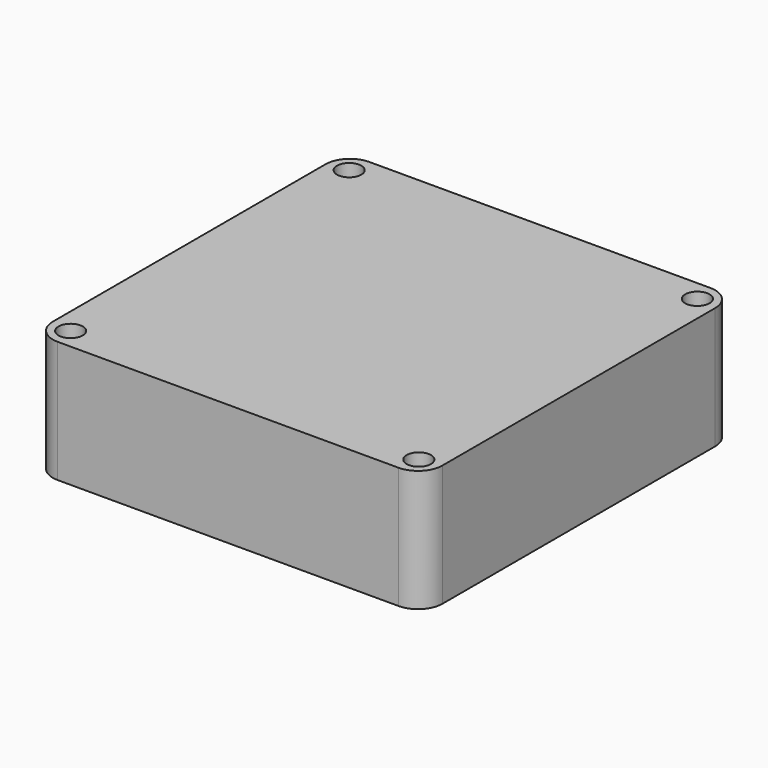
from build123d import *

# Parameters (mm, degrees)
SKETCH_W  = 80
SKETCH_H  = 80
SKETCH_R  = 2.5
PAD_DEPTH = 25
FILLET_R  = 5


with BuildPart() as part:
    # Sketch → Pad (new body)
    with BuildSketch(Plane.XY):
        with Locations((-40, 40)):
            Rectangle(SKETCH_W, SKETCH_H)
        with Locations((-75.75, 4.25)):
            Circle(SKETCH_R, mode=Mode.SUBTRACT)
        with Locations((-4.25, 4.25)):
            Circle(SKETCH_R, mode=Mode.SUBTRACT)
        with Locations((-4.25, 75.75)):
            Circle(SKETCH_R, mode=Mode.SUBTRACT)
        with Locations((-75.75, 75.75)):
            Circle(SKETCH_R, mode=Mode.SUBTRACT)
    extrude(amount=PAD_DEPTH)

    # Fillet
    fillet_edges = [part.edges().sort_by_distance(p)[0] for p in [
        (0, 0, 12.5),
        (0, 80, 12.5),
        (-80, 0, 12.5),
        (-80, 80, 12.5),
    ]]
    fillet(fillet_edges, radius=FILLET_R)


solid = part.part
